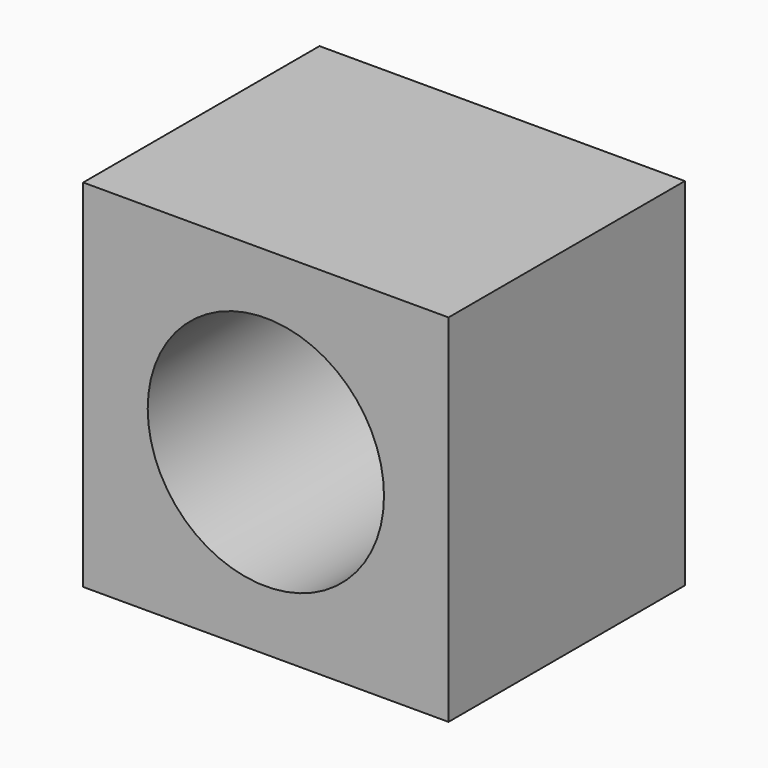
from build123d import *

# Parameters (mm, degrees)
F0_W     = 123.692184
F0_H     = 120.562196
F2_DEPTH = 100
F3_D     = 80


with BuildPart() as f2:
    # F0 (on Front) → F2 (new body)
    with BuildSketch(Plane.XZ):
        Rectangle(F0_W, F0_H)
    extrude(amount=F2_DEPTH)

    # F3 (through all)
    with Locations(Plane(origin=(0, 0, 0), x_dir=(1, 0, 0), z_dir=(0, 1, 0))):
        with Locations((0, 0)):
            Hole(F3_D / 2)


solid = f2.part
